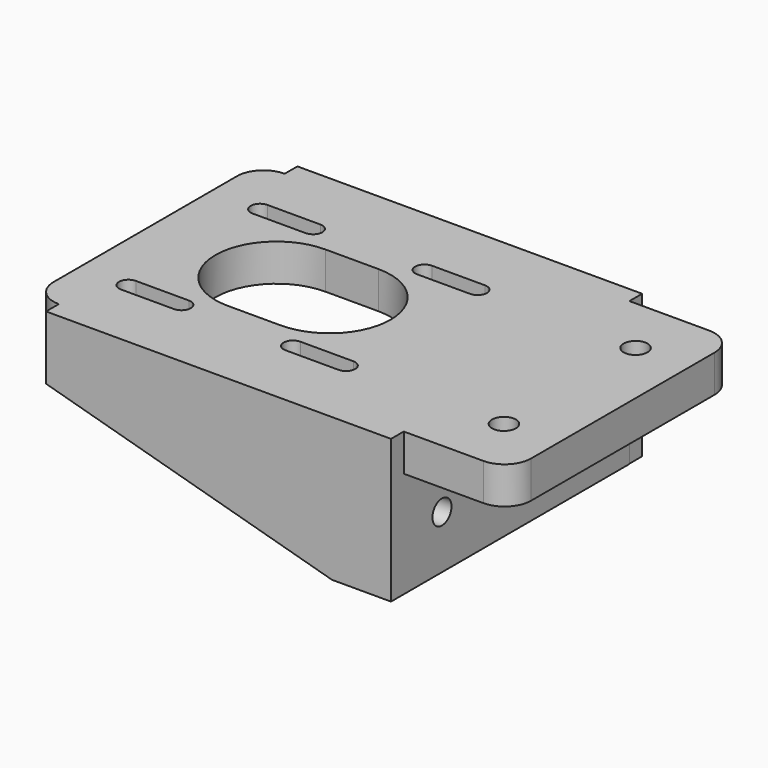
from build123d import *

# Parameters (mm, degrees)
F0_W      = 90
F0_H      = 53.2
F0_R      = 2.25
F1_DEPTH  = 3.5
F2_R      = 5
F3_W      = 5
F3_H      = 20
F4_DEPTH  = 26.6
F6_DEPTH  = 3
F8_DEPTH  = 3
F9_R      = 2.25
F10_DEPTH = 5


with BuildPart() as f1:
    # F0 (on Top) → F1 (new body, symmetric)
    with BuildSketch(Plane.XY):
        Rectangle(F0_W, F0_H)
        with BuildLine():
            ThreePointArc((-35.77, -17.25), (-37.52, -15.5), (-35.77, -13.75))
            Line((-35.77, -13.75), (-25.77, -13.75))
            ThreePointArc((-25.77, -13.75), (-24.02, -15.5), (-25.77, -17.25))
            Line((-25.77, -17.25), (-35.77, -17.25))
        make_face(mode=Mode.SUBTRACT)
        with BuildLine():
            Line((-4.77, -13.75), (5.23, -13.75))
            ThreePointArc((5.23, -13.75), (6.98, -15.5), (5.23, -17.25))
            Line((5.23, -17.25), (-4.77, -17.25))
            ThreePointArc((-4.77, -17.25), (-6.52, -15.5), (-4.77, -13.75))
        make_face(mode=Mode.SUBTRACT)
        with Locations((35, -15.5)):
            Circle(F0_R, mode=Mode.SUBTRACT)
        with BuildLine():
            ThreePointArc((-10.27, 11.5), (1.23, 0), (-10.27, -11.5))
            Line((-10.27, -11.5), (-20.27, -11.5))
            ThreePointArc((-20.27, -11.5), (-31.77, 0), (-20.27, 11.5))
            Line((-20.27, 11.5), (-10.27, 11.5))
        make_face(mode=Mode.SUBTRACT)
        with BuildLine():
            Line((-25.77, 13.75), (-35.77, 13.75))
            ThreePointArc((-35.77, 13.75), (-37.52, 15.5), (-35.77, 17.25))
            Line((-35.77, 17.25), (-25.77, 17.25))
            ThreePointArc((-25.77, 17.25), (-24.02, 15.5), (-25.77, 13.75))
        make_face(mode=Mode.SUBTRACT)
        with BuildLine():
            ThreePointArc((5.23, 17.25), (6.98, 15.5), (5.23, 13.75))
            Line((5.23, 13.75), (-4.77, 13.75))
            ThreePointArc((-4.77, 13.75), (-6.52, 15.5), (-4.77, 17.25))
            Line((-4.77, 17.25), (5.23, 17.25))
        make_face(mode=Mode.SUBTRACT)
        with Locations((35, 15.5)):
            Circle(F0_R, mode=Mode.SUBTRACT)
    extrude(amount=F1_DEPTH, both=True)

    # F2
    f2_edges = [f1.edges().sort_by_distance(p)[0] for p in [
        (-45, 26.6, 0),
        (-45, -26.6, 0),
        (45, -26.6, 0),
        (45, 26.6, 0),
    ]]
    fillet(f2_edges, radius=F2_R)

    # F3 (on Front) → F4 (join, symmetric)
    with BuildSketch(Plane.XZ):
        with Locations((22.5, -13.5)):
            Rectangle(F3_W, F3_H)
    extrude(amount=F4_DEPTH, both=True)

    # F5 (on face) → F6 (join)
    with BuildSketch(Plane.XZ.offset(26.6)):
        Polygon((13.8679239899, -23.5), (20, -23.5), (20, -3.5), (-40, -3.5), (-40, -8.5), align=None)
        Polygon((20, -23.5), (25, -23.5), (25, -3.5), (25, 3.5), (-40, 3.5), (-40, -3.5), (20, -3.5), align=None)
    extrude(amount=F6_DEPTH)

    # F7 (on face) → F8 (join)
    with BuildSketch(Plane(origin=(0, 26.6, 0), x_dir=(-1, 0, 0), z_dir=(0, 1, 0))):
        Polygon((-24.9622650445, 3.5), (-24.9622650445, -23.4764143825), (-20, -23.4764143825), (-20, -3.5), (40, -3.5), (40, 3.5), align=None)
        Polygon((-20, -3.5), (-20, -23.4764143825), (-13.8679249212, -23.4764143825), (40, -8.0235851929), (40, -3.5), align=None)
    extrude(amount=F8_DEPTH)

    # F9 (on face) → F10 (cut, through all)
    with BuildSketch(Plane.YZ.offset(25)):
        with Locations((-17.6, -13.5)):
            Circle(F9_R)
        with Locations((17.6, -13.5)):
            Circle(F9_R)
    extrude(amount=-F10_DEPTH, mode=Mode.SUBTRACT)


solid = f1.part
